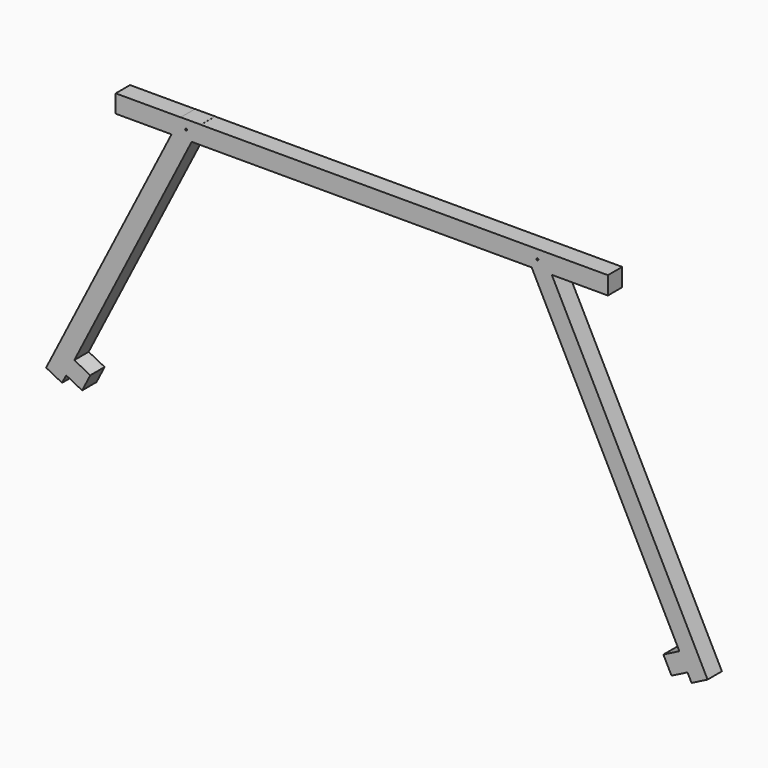
from build123d import *

# Parameters (mm, degrees)
F0_R     = 4.7625
F1_DEPTH = 88.9


with BuildPart() as f1:
    # F0 (on Front) → F1 (new body)
    with BuildSketch(Plane.XZ):
        Polygon((-942.4858074929, 1260.8257474314), (-1563.9598458497, 41.1142708535), (-1484.7493658494, 0.7545154267), (-1464.569488136, 40.3597554268), (-1424.2097327091, 119.5702354272), (-842.7110049672, 1260.8257474314), align=None)
        Polygon((-1219.2, 1260.8257474314), (-942.4858074929, 1260.8257474314), (-897.1889950328, 1349.7257474314), (-1219.2, 1349.7257474314), align=None)
        Polygon((-897.1889950328, 1349.7257474314), (-942.4858074929, 1260.8257474314), (-842.7110049672, 1260.8257474314), (-797.4141925071, 1349.7257474314), align=None)
        with Locations((-869.95, 1305.2757474314)):
            Circle(F0_R, mode=Mode.SUBTRACT)
        Polygon((-1424.2097327091, 119.5702354272), (-1464.569488136, 40.3597554268), (-1385.3590081356, 0), (-1344.9992527088, 79.2104800003), align=None)
        Polygon((-896.966906282, 1350.1616211469), (-897.1889950328, 1349.7257474314), (-797.4141925071, 1349.7257474314), (-797.1921037563, 1350.1616211469), align=None)
        Polygon((-797.4141925071, 1349.7257474314), (-842.7110049672, 1260.8257474314), (841.6334658834, 1260.8257474314), (796.3366534233, 1349.7257474314), align=None)
        Polygon((941.4082684091, 1260.8257474314), (841.6334658834, 1260.8257474314), (1573.2619453901, -175.0759925752), (1613.621700817, -254.2864725756), (1633.8015785304, -293.8917125758), (1713.0120585307, -253.5319571489), align=None)
        Polygon((796.3366534233, 1349.7257474314), (841.6334658834, 1260.8257474314), (941.4082684091, 1260.8257474314), (896.111455949, 1349.7257474314), align=None)
        with Locations((869.95, 1305.2757474314)):
            Circle(F0_R, mode=Mode.SUBTRACT)
        Polygon((1613.621700817, -254.2864725756), (1573.2619453901, -175.0759925752), (1494.0514653898, -215.4357480021), (1534.4112208166, -294.6462280024), align=None)
        Polygon((896.111455949, 1349.7257474314), (941.4082684091, 1260.8257474314), (1219.2, 1260.8257474314), (1219.2, 1349.7257474314), align=None)
    extrude(amount=F1_DEPTH)


solid = f1.part
